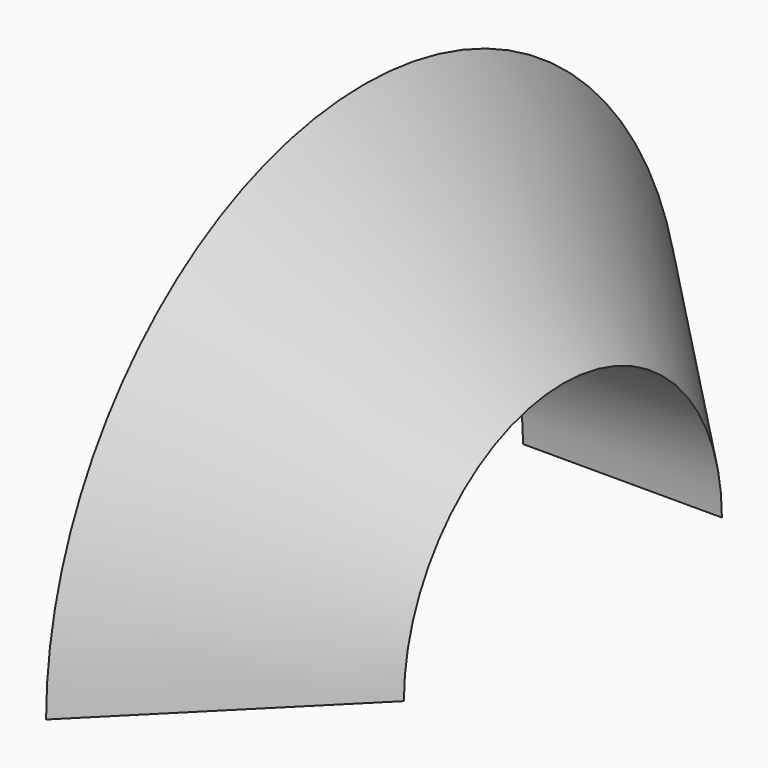
from build123d import *

# Parameters (mm, degrees)
SKETCH001_W      = 178.926751
SKETCH001_H      = 164.552085
PAD_DEPTH        = 25
REVOLUTION_ANGLE = 180


with BuildPart() as pad:
    # Sketch001 → Pad (new body)
    with BuildSketch(Plane.YZ):
        with Locations((1.16814, -0.450252)):
            Rectangle(SKETCH001_W, SKETCH001_H)
    extrude(amount=PAD_DEPTH)


with BuildPart() as cut:
    # Sketch → Revolution (revolve)
    with BuildSketch(Plane.XY):
        Polygon((0, 25), (0, 75), (50, 25), align=None)
    revolve(axis=Axis((0, 0, 0), (1, 0, 0)), revolution_arc=REVOLUTION_ANGLE)

    # Cut: cut Pad
    add(pad.part, mode=Mode.SUBTRACT)


solid = cut.part
